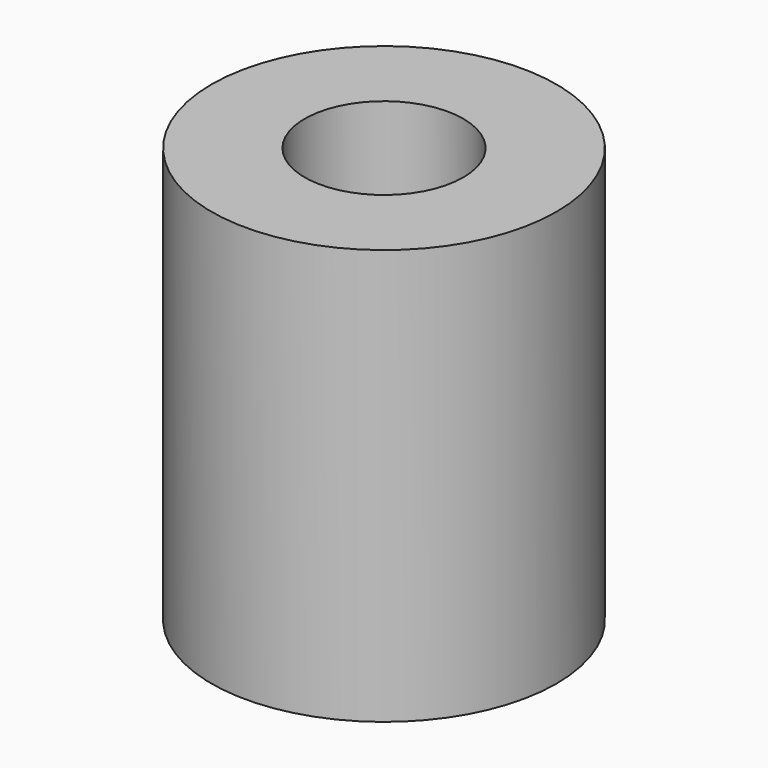
from build123d import *

# Parameters (mm, degrees)
F2_R     = 4.8514
F3_DEPTH = 25.4


with BuildPart() as f1:
    # F0 (on Front) → F1 (revolve)
    with BuildSketch(Plane.XZ):
        Polygon((0, 0.135239), (0, 0), (10.548635, 0), align=None)
        Polygon((0, 0.135239), (10.548635, 0), (10.548635, 25.4), (9.715849, 25.4), (0, 25.4), align=None)
    revolve(axis=Axis((0, 0, 12.7), (0, 0, -1)))

    # F2 (on face) → F3 (cut)
    with BuildSketch(Plane.XY.offset(25.4)):
        Circle(F2_R)
    extrude(amount=-F3_DEPTH, mode=Mode.SUBTRACT)


solid = f1.part
